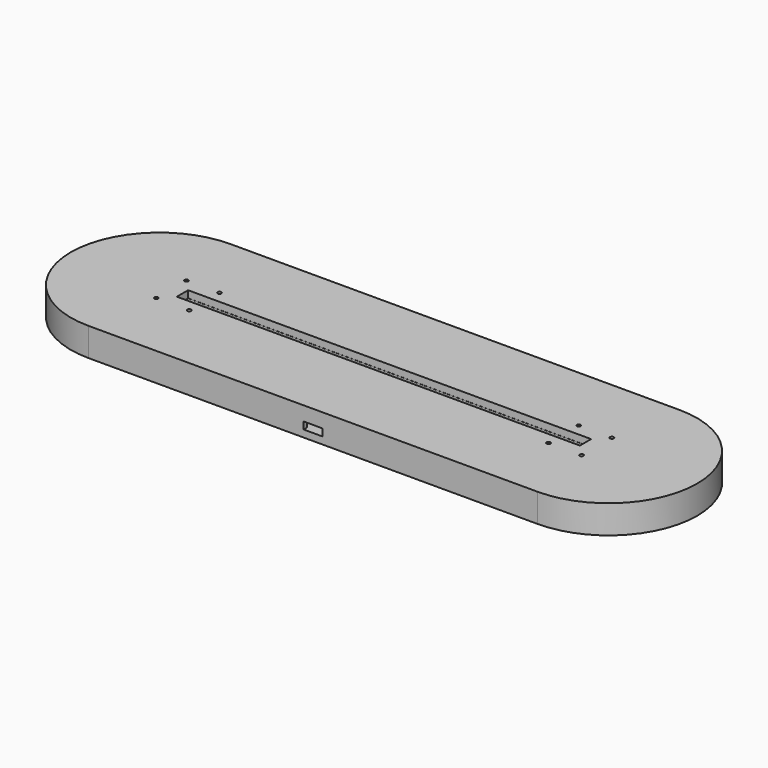
from build123d import *

# Parameters (mm, degrees)
PAD_DEPTH       = 6
POCKET_DEPTH    = 3
SKETCH002_W     = 18.4
SKETCH002_H     = 20.85
POCKET001_DEPTH = 3
SKETCH003_W     = 8
SKETCH003_H     = 1.65
POCKET002_DEPTH = 3
SKETCH004_W     = 185.077476
SKETCH004_H     = 5.85
PAD001_DEPTH    = 3
SKETCH005_W     = 170.5
SKETCH005_H     = 5.95
PAD002_DEPTH    = 3
SKETCH007_R     = 0.8
POCKET003_DEPTH = 563.341185


with BuildPart() as part:
    # Sketch → Pad (new body)
    with BuildSketch(Plane.XY):
        with BuildLine():
            ThreePointArc((-95, 37.5), (-132.5, 0), (-95, -37.5))
            Line((-95, -37.5), (95, -37.5))
            ThreePointArc((95, -37.5), (132.5, 0), (95, 37.5))
            Line((-95, 37.5), (95, 37.5))
        make_face()
    extrude(amount=PAD_DEPTH)

    # Sketch001 (on Face6 of Pad) → Pocket (cut)
    with BuildSketch(Plane.XY.offset(6)):
        with BuildLine():
            ThreePointArc((-87.3, 6), (-93.3, 0), (-87.3, -6))
            Line((-87.3, -6), (87.3, -6))
            ThreePointArc((87.3, -6), (93.3, 0), (87.3, 6))
            Line((-87.3, 6), (87.3, 6))
        make_face()
    extrude(amount=-POCKET_DEPTH, mode=Mode.SUBTRACT)

    # Sketch002 (on Face5 of Pocket) → Pocket001 (cut)
    with BuildSketch(Plane.XY.offset(6)):
        with Locations((0, -25.425)):
            Rectangle(SKETCH002_W, SKETCH002_H)
    extrude(amount=-POCKET001_DEPTH, mode=Mode.SUBTRACT)

    # Sketch003 (on Face5 of Pocket001) → Pocket002 (cut)
    with BuildSketch(Plane.XY.offset(6)):
        with Locations((0, -36.675)):
            Rectangle(SKETCH003_W, SKETCH003_H)
    extrude(amount=-POCKET002_DEPTH, mode=Mode.SUBTRACT)

    # Sketch004 (on Face5 of Pocket002) → Pad001 (join)
    with BuildSketch(Plane.XY.offset(6)):
        with BuildLine():
            ThreePointArc((-95, 37.5), (-132.5, 0), (-95, -37.5))
            Line((-95, -37.5), (95, -37.5))
            ThreePointArc((95, -37.5), (132.5, 0), (95, 37.5))
            Line((-95, 37.5), (95, 37.5))
        make_face()
        Rectangle(SKETCH004_W, SKETCH004_H, mode=Mode.SUBTRACT)
    extrude(amount=PAD001_DEPTH)

    # Sketch005 (on Face12 of Pad001) → Pad002 (join)
    with BuildSketch(Plane.XY.offset(9)):
        with BuildLine():
            ThreePointArc((-95, 37.5), (-132.5, 0), (-95, -37.5))
            Line((-95, -37.5), (95, -37.5))
            ThreePointArc((95, -37.5), (132.5, 0), (95, 37.5))
            Line((-95, 37.5), (95, 37.5))
        make_face()
        Rectangle(SKETCH005_W, SKETCH005_H, mode=Mode.SUBTRACT)
    extrude(amount=PAD002_DEPTH)

    # Sketch007 (on Face20 of Pad002) → Pocket003 (cut, through all)
    with BuildSketch(Plane.XY.offset(12)):
        with Locations((-90, -8)):
            Circle(SKETCH007_R)
        with Locations((-90, 8)):
            Circle(SKETCH007_R)
        with Locations((-76, 8)):
            Circle(SKETCH007_R)
        with Locations((-76, -8)):
            Circle(SKETCH007_R)
    pocket003 = extrude(amount=-POCKET003_DEPTH, mode=Mode.SUBTRACT)

    # Mirrored: Pocket003 across Sketch007 V_Axis
    add(pocket003.mirror(Plane(origin=(0, 0, 12), x_dir=(0, 0, 1), z_dir=(1, 0, 0))), mode=Mode.SUBTRACT)


solid = part.part
